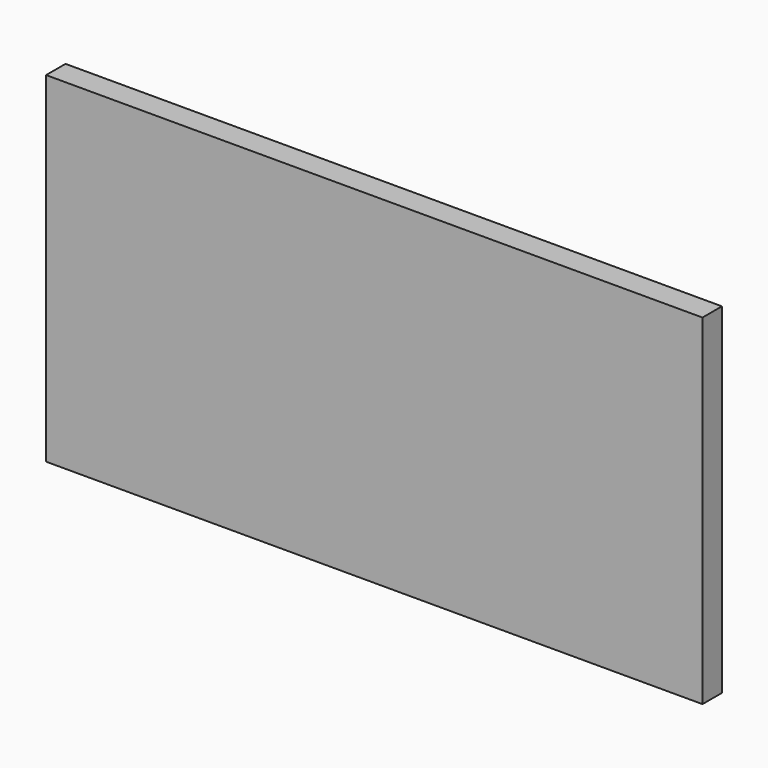
from build123d import *

# Parameters (mm, degrees)
F0_W     = 342.9
F0_H     = 177.8
F1_DEPTH = 12.7
F2_W     = 330.2
F2_H     = 12.7
F3_DEPTH = 6.35
F4_W     = 330.2
F4_H     = 12.7
F5_DEPTH = 6.35


with BuildPart() as f1:
    # F0 (on Front) → F1 (new body)
    with BuildSketch(Plane.XZ):
        with Locations((171.45, 88.9)):
            Rectangle(F0_W, F0_H)
    extrude(amount=F1_DEPTH)

    # F2 (on face) → F3 (cut)
    with BuildSketch(Plane(origin=(0, 0, 0), x_dir=(-1, 0, 0), z_dir=(0, 1, 0))):
        with Locations((-171.45, 12.7)):
            Rectangle(F2_W, F2_H)
    extrude(amount=-F3_DEPTH, mode=Mode.SUBTRACT)

    # F4 (on face) → F5 (cut)
    with BuildSketch(Plane(origin=(0, 0, 0), x_dir=(-1, 0, 0), z_dir=(0, 1, 0))):
        with Locations((-171.45, 165.1)):
            Rectangle(F4_W, F4_H)
    extrude(amount=-F5_DEPTH, mode=Mode.SUBTRACT)


solid = f1.part
